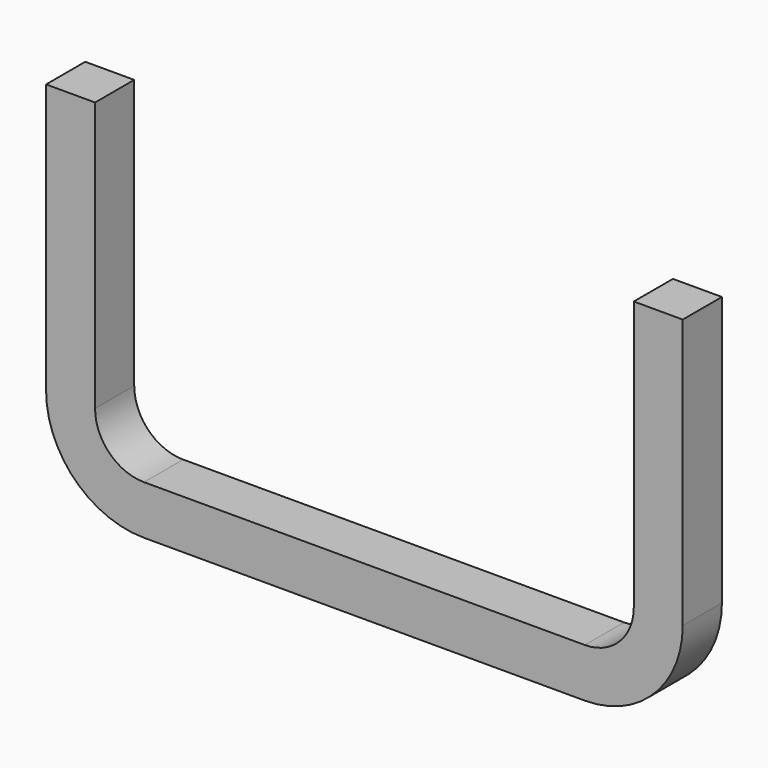
from build123d import *

# Parameters (mm, degrees)
F2_W = 6.35
F2_H = 6.35


with BuildPart() as f3:
    # F3: sweep along a path in F0
    with BuildLine(Plane.XZ) as f3_path:
        Line((-38.1, 44.45), (-38.1, 9.525))
        ThreePointArc((-38.1, 9.525), (-35.3101920908, 2.7898079092), (-28.575, 0))
        Line((-28.575, 0), (0, 0))
        Line((0, 0), (28.575, 0))
        ThreePointArc((28.575, 0), (35.3101920908, 2.7898079092), (38.1, 9.525))
        Line((38.1, 9.525), (38.1, 44.45))
    # F2 (on offset) → F3 (sweep)
    with BuildSketch(Plane.XY.offset(44.45)):
        with Locations((-38.1, 0)):
            Rectangle(F2_W, F2_H)
    sweep(path=f3_path.line)


solid = f3.part
